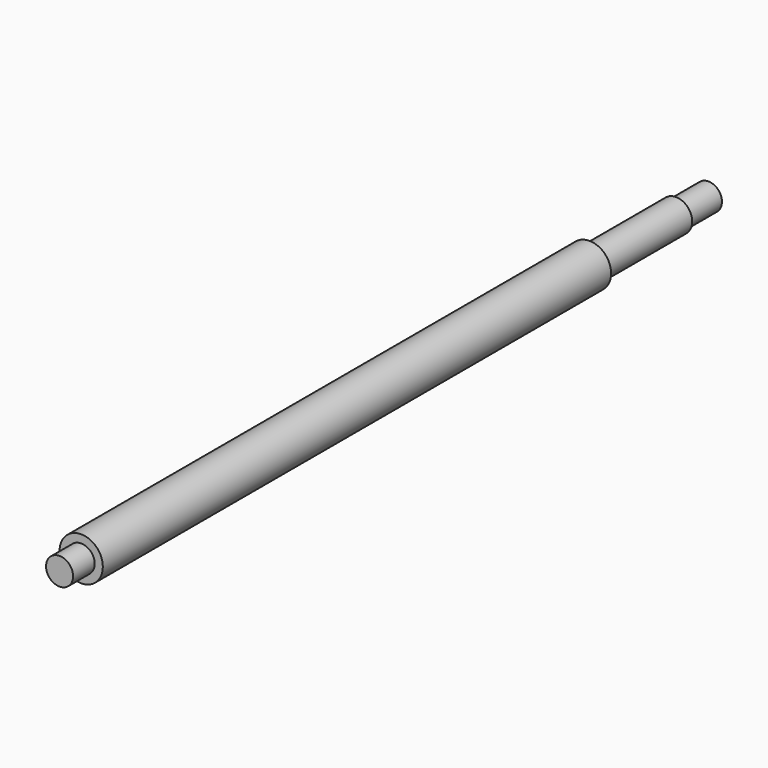
from build123d import *

# Parameters (mm, degrees)
F0_R     = 8
F0_R_2   = 6
F0_R_3   = 5
F1_DEPTH = 235
F2_DEPTH = 40
F3_R     = 5
F4_DEPTH = 15
F5_R     = 5
F6_DEPTH = 10


with BuildPart() as f1:
    # F0 (on Front) → F1 (new body)
    with BuildSketch(Plane.XZ):
        with Locations((-6.1693550088, 11.2500013784)):
            Circle(F0_R)
        with Locations((-6.1693550088, 11.2500013784)):
            Circle(F0_R_2, mode=Mode.SUBTRACT)
        with Locations((-6.1693550088, 11.2500013784)):
            Circle(F0_R_2)
        with Locations((-6.1693550088, 11.2500013784)):
            Circle(F0_R_3, mode=Mode.SUBTRACT)
        with Locations((-6.1693550088, 11.2500013784)):
            Circle(F0_R_3)
    extrude(amount=F1_DEPTH)

    # F0 (on Front) → F2 (join)
    with BuildSketch(Plane.XZ):
        with Locations((-6.1693550088, 11.2500013784)):
            Circle(F0_R_2)
        with Locations((-6.1693550088, 11.2500013784)):
            Circle(F0_R_3, mode=Mode.SUBTRACT)
        with Locations((-6.1693550088, 11.2500013784)):
            Circle(F0_R_3)
    extrude(amount=-F2_DEPTH)

    # F3 (on face) → F4 (join)
    with BuildSketch(Plane(origin=(0, 40, 0), x_dir=(-1, 0, 0), z_dir=(0, 1, 0))):
        with Locations((6.1693550088, 11.2500013784)):
            Circle(F3_R)
    extrude(amount=F4_DEPTH)

    # F5 (on face) → F6 (join)
    with BuildSketch(Plane.XZ.offset(235)):
        with Locations((-6.1693550088, 11.2500013784)):
            Circle(F5_R)
    extrude(amount=F6_DEPTH)


solid = f1.part
